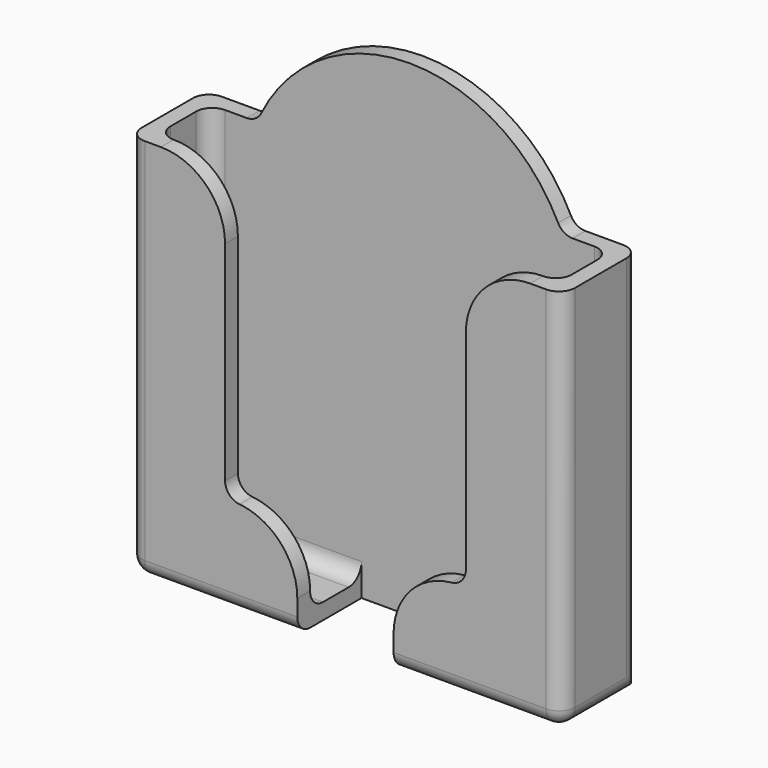
from build123d import *

# Parameters (mm, degrees)
F0_W     = 85.725
F0_H     = 76.2
F1_DEPTH = 19.05
F2_T     = -3.175
F4_DEPTH = 15.875
F6_DEPTH = 3.175
F7_R     = 3.175
F8_R     = 12.7


with BuildPart() as f1:
    # F0 (on Front) → F1 (new body)
    with BuildSketch(Plane.XZ):
        with Locations((42.8625, 38.1)):
            Rectangle(F0_W, F0_H)
    extrude(amount=F1_DEPTH)

    # F2
    f2_openings = [f1.faces().sort_by_distance(p)[0] for p in [
        (42.8625, -9.525, 76.2),
    ]]
    offset(amount=F2_T, openings=f2_openings)

    # F3 (on face) → F4 (cut, through all)
    with BuildSketch(Plane.XZ.offset(19.05)):
        Polygon((42.8625, 76.2), (19.05, 76.2), (19.05, 19.05), (33.3375, 19.05), (33.3375, 0), (42.8625, 0), align=None)
        Polygon((66.675, 76.2), (42.8625, 76.2), (42.8625, 0), (52.3875, 0), (52.3875, 19.05), (66.675, 19.05), align=None)
    extrude(amount=-F4_DEPTH, mode=Mode.SUBTRACT)

    # F5 (on face) → F6 (join, through all)
    with BuildSketch(Plane(origin=(0, 0, 0), x_dir=(-1, 0, 0), z_dir=(0, 1, 0))):
        with BuildLine():
            Line((-73.025, 76.2), (-12.7, 76.2))
            ThreePointArc((-12.7, 76.2), (-42.8625, 96.2271509033), (-73.025, 76.2))
        make_face()
    extrude(amount=-F6_DEPTH)

    # F7
    f7_edges = [f1.edges().sort_by_distance(p)[0] for p in [
        (3.175, -3.175, 39.6875),
        (3.175, -15.875, 39.6875),
        (12.7, -1.5875, 76.2),
        (73.025, -1.5875, 76.2),
        (82.55, -3.175, 39.6875),
        (82.55, -15.875, 39.6875),
        (66.675, -17.4625, 19.05),
        (19.05, -17.4625, 19.05),
        (18.25625, -3.175, 3.175),
        (3.175, -9.525, 3.175),
        (18.25625, -15.875, 3.175),
        (67.46875, -3.175, 3.175),
        (67.46875, -15.875, 3.175),
        (82.55, -9.525, 3.175),
        (85.725, -19.05, 38.1),
        (85.725, 0, 38.1),
        (0, 0, 38.1),
        (0, -19.05, 38.1),
        (0, -9.525, 0),
        (69.05625, -19.05, 0),
        (16.66875, -19.05, 0),
        (85.725, -9.525, 0),
    ]]
    fillet(f7_edges, radius=F7_R)

    # F8
    f8_edges = [f1.edges().sort_by_distance(p)[0] for p in [
        (19.05, -17.4625, 76.2),
        (66.675, -17.4625, 76.2),
        (52.3875, -17.4625, 19.05),
        (33.3375, -17.4625, 19.05),
    ]]
    fillet(f8_edges, radius=F8_R)


solid = f1.part
